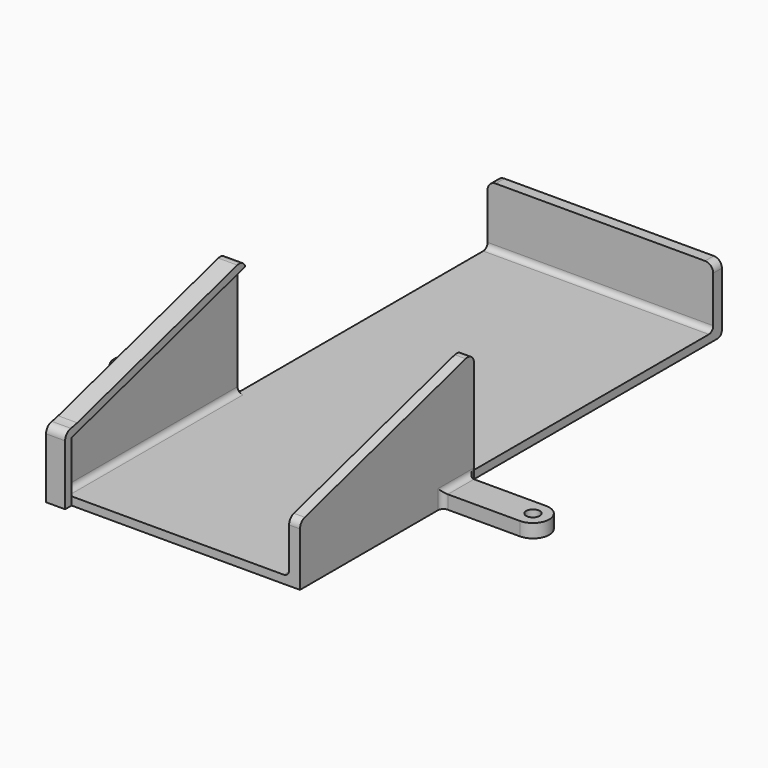
from build123d import *

# Parameters (mm, degrees)
SKETCH_W     = 83
SKETCH_H     = 195
PAD_DEPTH    = 3
PAD001_DEPTH = 4
PAD002_DEPTH = 7
SKETCH003_W  = 83
SKETCH003_H  = 25
PAD003_DEPTH = 4
SKETCH005_R  = 2.5
PAD005_DEPTH = 5
SKETCH006_W  = 7
SKETCH006_H  = 25
PAD006_DEPTH = 3
FILLET_R     = 19
FILLET001_R  = 3
FILLET002_R  = 2
FILLET003_R  = 2


with BuildPart() as part:
    # Sketch (on XY_Plane of Origin) → Pad (new body)
    with BuildSketch(Plane.XY):
        Rectangle(SKETCH_W, SKETCH_H)
    extrude(amount=PAD_DEPTH)

    # Sketch001 (on Face4 of Pad) → Pad001 (join)
    with BuildSketch(Plane(origin=(-41.5, 0, 0), x_dir=(0, -1, 0), z_dir=(-1, 0, 0))):
        Polygon((97.5, 0.02), (97.5, 22.02), (17.5, 45), (17.5, 0.02), align=None)
    pad001 = extrude(amount=PAD001_DEPTH)

    # Mirrored: Pad001 across YZ
    add(pad001.mirror(Plane.YZ))

    # Sketch002 (on Face13 of Mirrored) → Pad002 (join)
    with BuildSketch(Plane(origin=(-45.5, 0, 0), x_dir=(0, -1, 0), z_dir=(-1, 0, 0))):
        Polygon((97.5, 22.02), (97.5, 25.02), (17.5, 48), (17.5, 45), align=None)
    extrude(amount=-PAD002_DEPTH)

    # Sketch003 (on Face5 of Pad002) → Pad003 (join)
    with BuildSketch(Plane(origin=(0, 97.5, 0), x_dir=(-1, 0, 0), z_dir=(0, 1, 0))):
        with Locations((0, 12.5)):
            Rectangle(SKETCH003_W, SKETCH003_H)
    extrude(amount=PAD003_DEPTH)

    # Sketch005 (on XY_Plane of Origin) → Pad005 (join)
    with BuildSketch(Plane.XY):
        with BuildLine():
            Line((44, -20.02), (44, -32.02))
            Line((44, -32.02), (74, -32.02))
            ThreePointArc((74, -32.02), (80, -26.02), (74, -20.02))
            Line((74, -20.02), (44, -20.02))
        make_face()
        with Locations((74, -26.02)):
            Circle(SKETCH005_R, mode=Mode.SUBTRACT)
    pad005 = extrude(amount=PAD005_DEPTH)

    # Mirrored001: Pad005 across Sketch005 V_Axis
    add(pad005.mirror(Plane(origin=(0, 0, 0), x_dir=(0, 0, 1), z_dir=(1, 0, 0))))

    # Sketch006 (on Face3 of Pad003) → Pad006 (join)
    with BuildSketch(Plane.XZ.offset(97.5)):
        with Locations((-42, 12.52)):
            Rectangle(SKETCH006_W, SKETCH006_H)
    extrude(amount=PAD006_DEPTH)

    # Fillet
    fillet_edges = [part.edges().sort_by_distance(p)[0] for p in [
        (-42, -97.5, 25.02),
    ]]
    fillet(fillet_edges, radius=FILLET_R)

    # Fillet001
    fillet001_edges = [part.edges().sort_by_distance(p)[0] for p in [
        (-42, -100.5, 25.02),
        (43.5, -97.5, 22.02),
        (43.5, -17.5, 45),
        (-42, -17.5, 48),
        (41.5, 99.5, 25),
        (-41.5, 99.5, 25),
    ]]
    fillet(fillet001_edges, radius=FILLET001_R)

    # Fillet002
    fillet002_edges = [part.edges().sort_by_distance(p)[0] for p in [
        (-41.5, -57.5, 3),
        (0, 97.5, 3),
        (41.5, -57.5, 3),
        (0, 101.5, 0),
    ]]
    fillet(fillet002_edges, radius=FILLET002_R)

    # Fillet003
    fillet003_edges = [part.edges().sort_by_distance(p)[0] for p in [
        (45.5, -20.02, 2.51),
        (41.5, -17.5, 1.51),
        (45.5, -32.02, 2.51),
        (45.5, -26.02, 5),
        (-45.5, -20.02, 2.51),
        (-45.5, -32.02, 2.51),
        (-45.5, -26.02, 5),
        (-41.5, -17.5, 1.51),
    ]]
    fillet(fillet003_edges, radius=FILLET003_R)


with BuildPart() as part_1:
    # Body placement: moved
    add(part.part.moved(Location((147, 106, 2))))


solid = part_1.part
